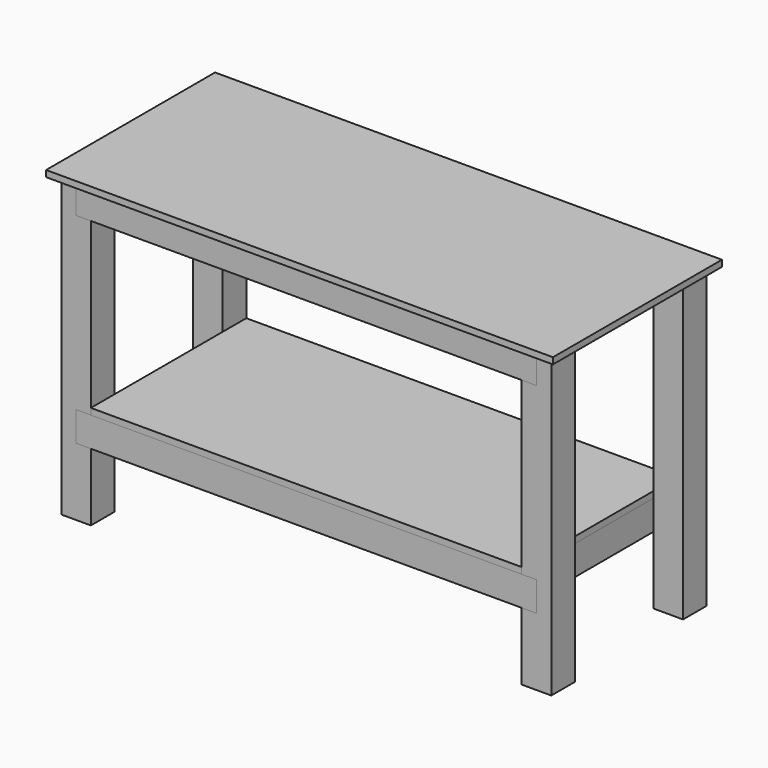
from build123d import *

# Parameters (mm, degrees)
F0_W      = 1524
F0_H      = 635
F1_DEPTH  = 19.05
F2_W      = 88.9
F2_H      = 88.9
F3_DEPTH  = 895.01472
F4_W      = 1384.3
F4_H      = 88.9
F5_DEPTH  = 44.45
F6_W      = 1384.3
F6_H      = 88.9
F7_DEPTH  = 44.45
F8_W      = 1384.3
F8_H      = 88.9
F9_DEPTH  = 44.45
F10_W     = 1384.3
F10_H     = 88.9
F11_DEPTH = 44.45
F12_W     = 38.1
F12_H     = 88.9
F13_DEPTH = 495.3
F14_W     = 1295.4
F14_H     = 584.2
F15_DEPTH = 19.05


with BuildPart() as f1:
    # F0 (on Top) → F1 (new body)
    with BuildSketch(Plane.XY):
        Rectangle(F0_W, F0_H)
    extrude(amount=F1_DEPTH)


with BuildPart() as f3:
    # F2 (on face) → F3 (new body)
    with BuildSketch(Plane(origin=(0, 0, 0), x_dir=(1, 0, 0), z_dir=(0, 0, -1))):
        with Locations((-692.15, 247.65)):
            Rectangle(F2_W, F2_H)
    extrude(amount=F3_DEPTH)


with BuildPart() as f3b:
    # F2 (on face) → F3, piece 2 (new body)
    with BuildSketch(Plane(origin=(0, 0, 0), x_dir=(1, 0, 0), z_dir=(0, 0, -1))):
        with Locations((692.15, 247.65)):
            Rectangle(F2_W, F2_H)
    extrude(amount=F3_DEPTH)


with BuildPart() as f3c:
    # F2 (on face) → F3, piece 3 (new body)
    with BuildSketch(Plane(origin=(0, 0, 0), x_dir=(1, 0, 0), z_dir=(0, 0, -1))):
        with Locations((-692.15, -247.65)):
            Rectangle(F2_W, F2_H)
    extrude(amount=F3_DEPTH)


with BuildPart() as f3d:
    # F2 (on face) → F3, piece 4 (new body)
    with BuildSketch(Plane(origin=(0, 0, 0), x_dir=(1, 0, 0), z_dir=(0, 0, -1))):
        with Locations((692.15, -247.65)):
            Rectangle(F2_W, F2_H)
    extrude(amount=F3_DEPTH)


with BuildPart() as f5_tool:
    # F4 (on face) → F5 (new body)
    with BuildSketch(Plane.XZ.offset(292.1)):
        with Locations((0, -44.45)):
            Rectangle(F4_W, F4_H)
        with Locations((0, -647.36472)):
            Rectangle(F4_W, F4_H)
    extrude(amount=-F5_DEPTH)


with BuildPart() as f3_1:
    add(f3.part)

    # F5: cut by f5_tool
    add(f5_tool.part, mode=Mode.SUBTRACT)


with BuildPart() as f3b_1:
    add(f3b.part)

    # F5: cut by f5_tool
    add(f5_tool.part, mode=Mode.SUBTRACT)


with BuildPart() as f7_tool:
    # F6 (on face) → F7 (new body)
    with BuildSketch(Plane(origin=(0, 292.1, 0), x_dir=(-1, 0, 0), z_dir=(0, 1, 0))):
        with Locations((0, -44.45)):
            Rectangle(F6_W, F6_H)
        with Locations((0, -647.36472)):
            Rectangle(F6_W, F6_H)
    extrude(amount=-F7_DEPTH)


with BuildPart() as f3c_1:
    add(f3c.part)

    # F7: cut by f7_tool
    add(f7_tool.part, mode=Mode.SUBTRACT)


with BuildPart() as f3d_1:
    add(f3d.part)

    # F7: cut by f7_tool
    add(f7_tool.part, mode=Mode.SUBTRACT)


with BuildPart() as f9:
    # F8 (on face) → F9 (new body, through all)
    with BuildSketch(Plane.XZ.offset(247.65)):
        with Locations((0, -44.45)):
            Rectangle(F8_W, F8_H)
    extrude(amount=F9_DEPTH)


with BuildPart() as f9b:
    # F8 (on face) → F9, piece 2 (new body, through all)
    with BuildSketch(Plane.XZ.offset(247.65)):
        with Locations((0, -647.36472)):
            Rectangle(F8_W, F8_H)
    extrude(amount=F9_DEPTH)


with BuildPart() as f11:
    # F10 (on face) → F11 (new body, through all)
    with BuildSketch(Plane(origin=(0, 247.65, 0), x_dir=(-1, 0, 0), z_dir=(0, 1, 0))):
        with Locations((0, -44.45)):
            Rectangle(F10_W, F10_H)
    extrude(amount=F11_DEPTH)


with BuildPart() as f11b:
    # F10 (on face) → F11, piece 2 (new body, through all)
    with BuildSketch(Plane(origin=(0, 247.65, 0), x_dir=(-1, 0, 0), z_dir=(0, 1, 0))):
        with Locations((0, -647.36472)):
            Rectangle(F10_W, F10_H)
    extrude(amount=F11_DEPTH)


with BuildPart() as f13:
    # F12 (on face) → F13 (new body, through all)
    with BuildSketch(Plane(origin=(0, -247.65, 0), x_dir=(-1, 0, 0), z_dir=(0, 1, 0))):
        with Locations((-628.65, -44.45)):
            Rectangle(F12_W, F12_H)
    extrude(amount=F13_DEPTH)


with BuildPart() as f13b:
    # F12 (on face) → F13, piece 2 (new body, through all)
    with BuildSketch(Plane(origin=(0, -247.65, 0), x_dir=(-1, 0, 0), z_dir=(0, 1, 0))):
        with Locations((628.65, -44.45)):
            Rectangle(F12_W, F12_H)
    extrude(amount=F13_DEPTH)


with BuildPart() as f13c:
    # F12 (on face) → F13, piece 3 (new body, through all)
    with BuildSketch(Plane(origin=(0, -247.65, 0), x_dir=(-1, 0, 0), z_dir=(0, 1, 0))):
        with Locations((-192.6082, -44.45)):
            Rectangle(F12_W, F12_H)
    extrude(amount=F13_DEPTH)


with BuildPart() as f13d:
    # F12 (on face) → F13, piece 4 (new body, through all)
    with BuildSketch(Plane(origin=(0, -247.65, 0), x_dir=(-1, 0, 0), z_dir=(0, 1, 0))):
        with Locations((243.4336, -44.45)):
            Rectangle(F12_W, F12_H)
    extrude(amount=F13_DEPTH)


with BuildPart() as f13e:
    # F12 (on face) → F13, piece 5 (new body, through all)
    with BuildSketch(Plane(origin=(0, -247.65, 0), x_dir=(-1, 0, 0), z_dir=(0, 1, 0))):
        with Locations((243.4336, -647.36472)):
            Rectangle(F12_W, F12_H)
    extrude(amount=F13_DEPTH)


with BuildPart() as f13f:
    # F12 (on face) → F13, piece 6 (new body, through all)
    with BuildSketch(Plane(origin=(0, -247.65, 0), x_dir=(-1, 0, 0), z_dir=(0, 1, 0))):
        with Locations((-192.6082, -647.36472)):
            Rectangle(F12_W, F12_H)
    extrude(amount=F13_DEPTH)


with BuildPart() as f13g:
    # F12 (on face) → F13, piece 7 (new body, through all)
    with BuildSketch(Plane(origin=(0, -247.65, 0), x_dir=(-1, 0, 0), z_dir=(0, 1, 0))):
        with Locations((-628.65, -647.36472)):
            Rectangle(F12_W, F12_H)
    extrude(amount=F13_DEPTH)


with BuildPart() as f13h:
    # F12 (on face) → F13, piece 8 (new body, through all)
    with BuildSketch(Plane(origin=(0, -247.65, 0), x_dir=(-1, 0, 0), z_dir=(0, 1, 0))):
        with Locations((628.65, -647.36472)):
            Rectangle(F12_W, F12_H)
    extrude(amount=F13_DEPTH)


with BuildPart() as f15:
    # F14 (on face) → F15 (new body)
    with BuildSketch(Plane.XY.offset(-602.91472)):
        Rectangle(F14_W, F14_H)
    extrude(amount=F15_DEPTH)


solid = Compound([f1.part, f3_1.part, f3b_1.part, f3c_1.part, f3d_1.part, f9.part, f9b.part, f11.part, f11b.part, f13.part, f13b.part, f13c.part, f13d.part, f13e.part, f13f.part, f13g.part, f13h.part, f15.part])
